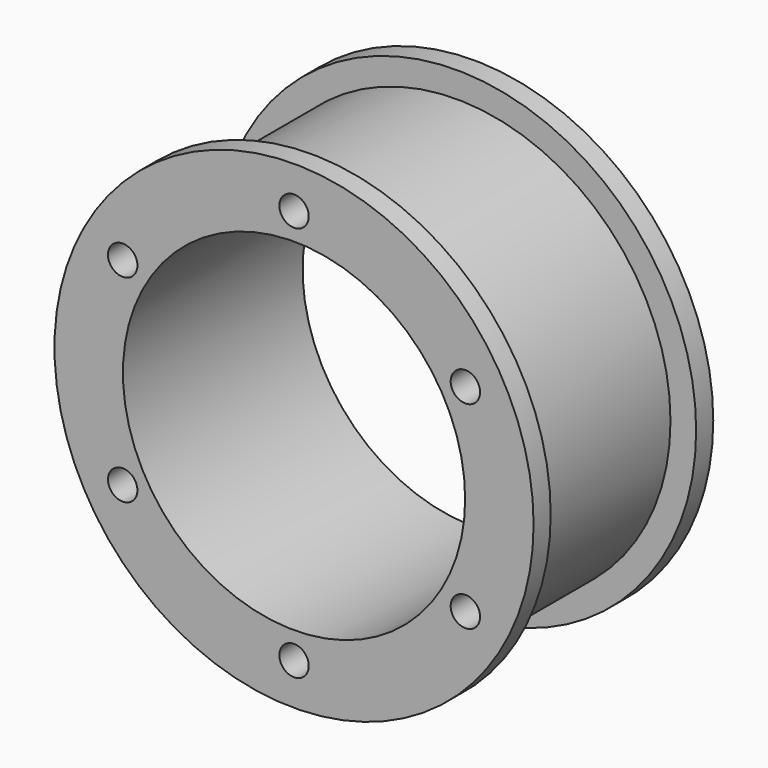
from build123d import *

# Parameters (mm, degrees)
F0_R     = 35.56
F0_R_2   = 25.4
F1_DEPTH = 3.175
F2_R     = 31.75
F2_R_2   = 25.4
F3_DEPTH = 26.9875
F4_R     = 35.56
F4_R_2   = 25.4
F5_DEPTH = 3.175
F6_R     = 2.18313
F7_DEPTH = 33.3385


with BuildPart() as f1:
    # F0 (on Front) → F1 (new body)
    with BuildSketch(Plane.XZ):
        Circle(F0_R)
        Circle(F0_R_2, mode=Mode.SUBTRACT)
    extrude(amount=F1_DEPTH)

    # F2 (on face) → F3 (join)
    with BuildSketch(Plane.XZ.offset(3.175)):
        Circle(F2_R)
        Circle(F2_R_2, mode=Mode.SUBTRACT)
    extrude(amount=F3_DEPTH)

    # F4 (on face) → F5 (join)
    with BuildSketch(Plane.XZ.offset(30.1625)):
        Circle(F4_R)
        Circle(F4_R_2, mode=Mode.SUBTRACT)
    extrude(amount=F5_DEPTH)

    # F6 (on face) → F7 (cut, through all)
    with BuildSketch(Plane.XZ.offset(33.3375)):
        with Locations((0, 29.36875)):
            Circle(F6_R)
        with Locations((-25.434084, 14.684375)):
            Circle(F6_R)
        with Locations((-25.434084, -14.684375)):
            Circle(F6_R)
        with Locations((0, -29.36875)):
            Circle(F6_R)
        with Locations((25.434084, -14.684375)):
            Circle(F6_R)
        with Locations((25.434084, 14.684375)):
            Circle(F6_R)
    extrude(amount=-F7_DEPTH, mode=Mode.SUBTRACT)


solid = f1.part
